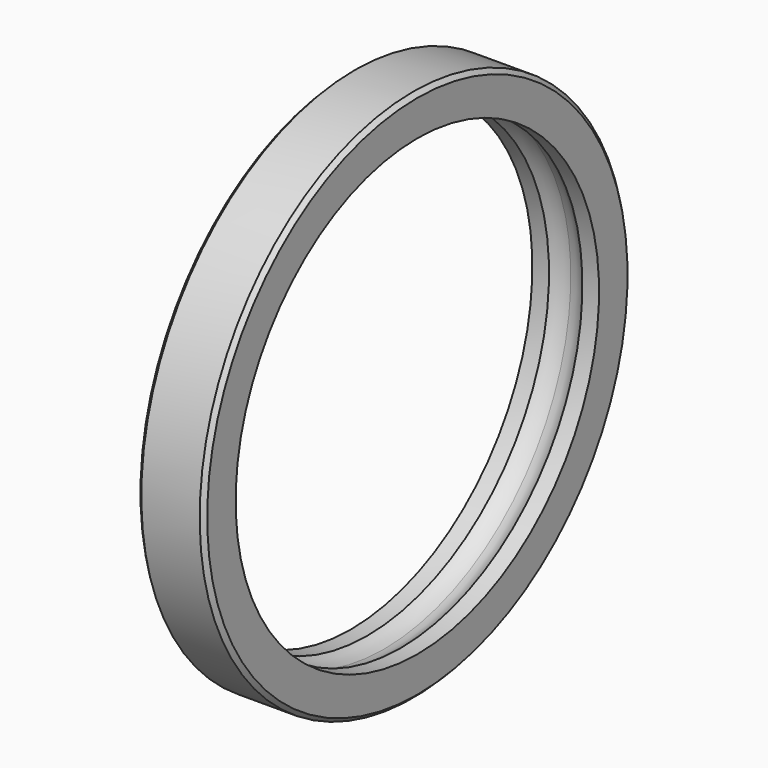
from build123d import *

# Parameters (mm, degrees)
F2_SIZE = 0.25


with BuildPart() as f1:
    # F0 (on Front) → F1 (revolve)
    with BuildSketch(Plane.XZ):
        with BuildLine():
            ThreePointArc((-1, 13.618034), (-0.535233, 13.901259), (0, 14))
            Line((0, 14), (0, 16))
            Line((0, 16), (-2, 16))
            Line((-2, 16), (-2, 13.618034))
            Line((-2, 13.618034), (-1, 13.618034))
        make_face()
        with BuildLine():
            ThreePointArc((0, 14), (0.535233, 13.901259), (1, 13.618034))
            Line((1, 13.618034), (2, 13.618034))
            Line((2, 13.618034), (2, 16))
            Line((2, 16), (0, 16))
            Line((0, 16), (0, 14))
        make_face()
    revolve(axis=Axis((28.429918, 0, 0), (1, 0, 0)))

    # F2
    f2_edges = [f1.edges().sort_by_distance(p)[0] for p in [
        (-2, 0, -16),
        (2, 0, -16),
    ]]
    chamfer(f2_edges, length=F2_SIZE)


solid = f1.part
